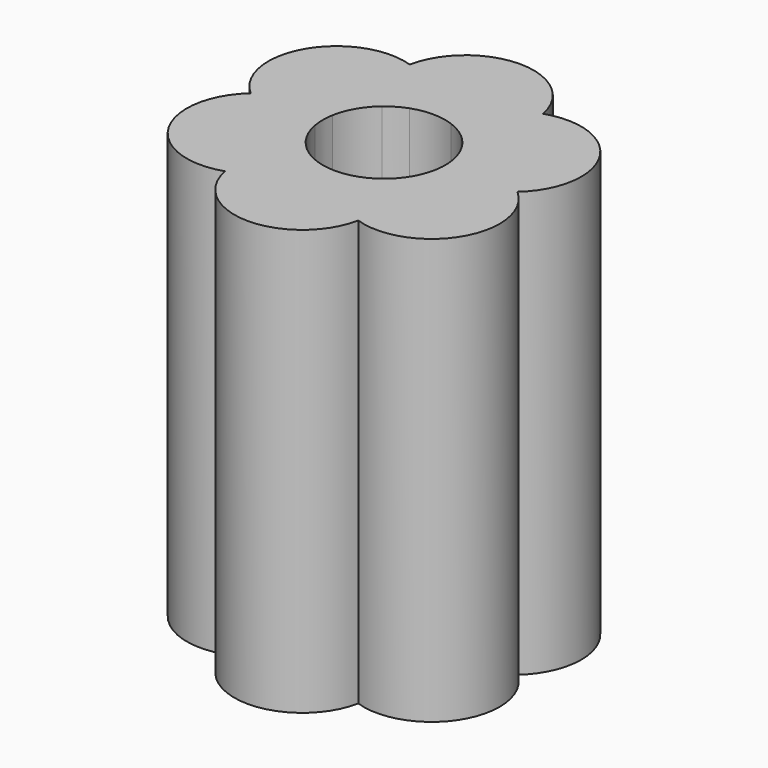
from build123d import *

# Parameters (mm, degrees)
F1_DEPTH = 2.5
F2_DEPTH = 10


with BuildPart() as f1:
    # F0 (on Top) → F1 (new body)
    with BuildSketch(Plane.XY):
        with BuildLine():
            Line((-0.8660254038, 2.5), (0, 3))
            Line((0, 3), (0.8660254038, 2.5))
            ThreePointArc((0.8660254038, 2.5), (1.3314444273, 3.0477867824), (1.9604759334, 3.3956439237))
            ThreePointArc((1.9604759334, 3.3956439237), (0, 5), (-1.9604759334, 3.3956439237))
            ThreePointArc((-1.9604759334, 3.3956439237), (-1.3314444273, 3.0477867824), (-0.8660254038, 2.5))
        make_face()
        with BuildLine():
            ThreePointArc((1.9604759334, 3.3956439237), (1.3314444273, 3.0477867824), (0.8660254038, 2.5))
            Line((0.8660254038, 2.5), (1.7320508076, 2))
            ThreePointArc((1.7320508076, 2), (1.9318516526, 2.4823619098), (2, 3))
            ThreePointArc((2, 3), (1.9900944534, 3.1988066059), (1.9604759334, 3.3956439237))
        make_face()
        with BuildLine():
            Line((-1.7320508076, 2), (-0.8660254038, 2.5))
            ThreePointArc((-0.8660254038, 2.5), (-1.3314444273, 3.0477867824), (-1.9604759334, 3.3956439237))
            ThreePointArc((-1.9604759334, 3.3956439237), (-1.9737385652, 2.676958089), (-1.7320508076, 2))
        make_face()
        with BuildLine():
            Line((-2.5980762114, 1.5), (-1.7320508076, 2))
            ThreePointArc((-1.7320508076, 2), (-1.9737385652, 2.676958089), (-1.9604759334, 3.3956439237))
            ThreePointArc((-1.9604759334, 3.3956439237), (-4.3301270189, 2.5), (-3.9209518669, 0))
            ThreePointArc((-3.9209518669, 0), (-3.3051829925, 0.3708286934), (-2.5980762114, 0.5))
            Line((-2.5980762114, 0.5), (-2.5980762114, 1.5))
        make_face()
        with BuildLine():
            ThreePointArc((-2.5980762114, 0.5), (-3.3051829925, 0.3708286934), (-3.9209518669, 0))
            ThreePointArc((-3.9209518669, 0), (-3.3051829925, -0.3708286934), (-2.5980762114, -0.5))
            Line((-2.5980762114, -0.5), (-2.5980762114, 0.5))
        make_face()
        with BuildLine():
            ThreePointArc((-2.5980762114, -0.5), (-3.3051829925, -0.3708286934), (-3.9209518669, 0))
            ThreePointArc((-3.9209518669, 0), (-4.3301270189, -2.5), (-1.9604759334, -3.3956439237))
            ThreePointArc((-1.9604759334, -3.3956439237), (-1.9737385652, -2.676958089), (-1.7320508076, -2))
            Line((-1.7320508076, -2), (-2.5980762114, -1.5))
            Line((-2.5980762114, -1.5), (-2.5980762114, -0.5))
        make_face()
        with BuildLine():
            ThreePointArc((-1.7320508076, -2), (-1.9737385652, -2.676958089), (-1.9604759334, -3.3956439237))
            ThreePointArc((-1.9604759334, -3.3956439237), (-1.3314444273, -3.0477867824), (-0.8660254038, -2.5))
            Line((-0.8660254038, -2.5), (-1.7320508076, -2))
        make_face()
        with BuildLine():
            ThreePointArc((-0.8660254038, -2.5), (-1.3314444273, -3.0477867824), (-1.9604759334, -3.3956439237))
            ThreePointArc((-1.9604759334, -3.3956439237), (0, -5), (1.9604759334, -3.3956439237))
            ThreePointArc((1.9604759334, -3.3956439237), (1.3314444273, -3.0477867824), (0.8660254038, -2.5))
            Line((0.8660254038, -2.5), (0, -3))
            Line((0, -3), (-0.8660254038, -2.5))
        make_face()
        with BuildLine():
            ThreePointArc((0.8660254038, -2.5), (1.3314444273, -3.0477867824), (1.9604759334, -3.3956439237))
            ThreePointArc((1.9604759334, -3.3956439237), (1.9900944534, -3.1988066059), (2, -3))
            ThreePointArc((2, -3), (1.9318516526, -2.4823619098), (1.7320508076, -2))
            Line((1.7320508076, -2), (0.8660254038, -2.5))
        make_face()
        with BuildLine():
            ThreePointArc((4.5980762114, -1.5), (4.4209518669, -0.6771243445), (3.9209518669, 0))
            ThreePointArc((3.9209518669, 0), (3.3051829925, -0.3708286934), (2.5980762114, -0.5))
            Line((2.5980762114, -0.5), (2.5980762114, -1.5))
            Line((2.5980762114, -1.5), (1.7320508076, -2))
            ThreePointArc((1.7320508076, -2), (1.9318516526, -2.4823619098), (2, -3))
            ThreePointArc((2, -3), (1.9900944534, -3.1988066059), (1.9604759334, -3.3956439237))
            ThreePointArc((1.9604759334, -3.3956439237), (3.7652950092, -3.1240690496), (4.5980762114, -1.5))
        make_face()
        with BuildLine():
            ThreePointArc((3.9209518669, 0), (3.3051829925, 0.3708286934), (2.5980762114, 0.5))
            Line((2.5980762114, 0.5), (2.5980762114, -0.5))
            ThreePointArc((2.5980762114, -0.5), (3.3051829925, -0.3708286934), (3.9209518669, 0))
        make_face()
        with BuildLine():
            ThreePointArc((2, 3), (1.9318516526, 2.4823619098), (1.7320508076, 2))
            Line((1.7320508076, 2), (2.5980762114, 1.5))
            Line((2.5980762114, 1.5), (2.5980762114, 0.5))
            ThreePointArc((2.5980762114, 0.5), (3.3051829925, 0.3708286934), (3.9209518669, 0))
            ThreePointArc((3.9209518669, 0), (4.4209518669, 0.6771243445), (4.5980762114, 1.5))
            ThreePointArc((4.5980762114, 1.5), (3.7652950092, 3.1240690496), (1.9604759334, 3.3956439237))
            ThreePointArc((1.9604759334, 3.3956439237), (1.9900944534, 3.1988066059), (2, 3))
        make_face()
    extrude(amount=-F1_DEPTH)

    # F0 (on Top) → F2 (join)
    with BuildSketch(Plane.XY):
        with BuildLine():
            ThreePointArc((-0.8660254038, -2.5), (-1.3314444273, -3.0477867824), (-1.9604759334, -3.3956439237))
            ThreePointArc((-1.9604759334, -3.3956439237), (0, -5), (1.9604759334, -3.3956439237))
            ThreePointArc((1.9604759334, -3.3956439237), (1.3314444273, -3.0477867824), (0.8660254038, -2.5))
            Line((0.8660254038, -2.5), (0, -3))
            Line((0, -3), (-0.8660254038, -2.5))
        make_face()
        with BuildLine():
            ThreePointArc((-1.7320508076, -2), (-1.9737385652, -2.676958089), (-1.9604759334, -3.3956439237))
            ThreePointArc((-1.9604759334, -3.3956439237), (-1.3314444273, -3.0477867824), (-0.8660254038, -2.5))
            Line((-0.8660254038, -2.5), (-1.7320508076, -2))
        make_face()
        with BuildLine():
            ThreePointArc((0.8660254038, -2.5), (1.3314444273, -3.0477867824), (1.9604759334, -3.3956439237))
            ThreePointArc((1.9604759334, -3.3956439237), (1.9900944534, -3.1988066059), (2, -3))
            ThreePointArc((2, -3), (1.9318516526, -2.4823619098), (1.7320508076, -2))
            Line((1.7320508076, -2), (0.8660254038, -2.5))
        make_face()
        with BuildLine():
            ThreePointArc((4.5980762114, -1.5), (4.4209518669, -0.6771243445), (3.9209518669, 0))
            ThreePointArc((3.9209518669, 0), (3.3051829925, -0.3708286934), (2.5980762114, -0.5))
            Line((2.5980762114, -0.5), (2.5980762114, -1.5))
            Line((2.5980762114, -1.5), (1.7320508076, -2))
            ThreePointArc((1.7320508076, -2), (1.9318516526, -2.4823619098), (2, -3))
            ThreePointArc((2, -3), (1.9900944534, -3.1988066059), (1.9604759334, -3.3956439237))
            ThreePointArc((1.9604759334, -3.3956439237), (3.7652950092, -3.1240690496), (4.5980762114, -1.5))
        make_face()
        with BuildLine():
            ThreePointArc((1.7320508076, -2), (1.4813407194, -1.6562627961), (1.1635959589, -1.3733333333))
            ThreePointArc((1.1635959589, -1.3733333333), (0.9, -1.5588457268), (0.6075435751, -1.6943703268))
            ThreePointArc((0.6075435751, -1.6943703268), (0.6936952971, -2.1110100927), (0.8660254038, -2.5))
            Line((0.8660254038, -2.5), (1.7320508076, -2))
        make_face()
        with BuildLine():
            ThreePointArc((-0.6075435751, -1.6943703268), (-0.6936952971, -2.1110100927), (-0.8660254038, -2.5))
            Line((-0.8660254038, -2.5), (0, -3))
            Line((0, -3), (0.8660254038, -2.5))
            ThreePointArc((0.8660254038, -2.5), (0.6936952971, -2.1110100927), (0.6075435751, -1.6943703268))
            ThreePointArc((0.6075435751, -1.6943703268), (0, -1.8), (-0.6075435751, -1.6943703268))
        make_face()
        with BuildLine():
            Line((2.5980762114, -1.5), (2.5980762114, -0.5))
            ThreePointArc((2.5980762114, -0.5), (2.1750360164, -0.4547472966), (1.771139534, -0.3210369935))
            ThreePointArc((1.771139534, -0.3210369935), (1.5588457268, -0.9), (1.1635959589, -1.3733333333))
            ThreePointArc((1.1635959589, -1.3733333333), (1.4813407194, -1.6562627961), (1.7320508076, -2))
            Line((1.7320508076, -2), (2.5980762114, -1.5))
        make_face()
        with BuildLine():
            ThreePointArc((-1.1635959589, -1.3733333333), (-1.4813407194, -1.6562627961), (-1.7320508076, -2))
            Line((-1.7320508076, -2), (-0.8660254038, -2.5))
            ThreePointArc((-0.8660254038, -2.5), (-0.6936952971, -2.1110100927), (-0.6075435751, -1.6943703268))
            ThreePointArc((-0.6075435751, -1.6943703268), (-0.9, -1.5588457268), (-1.1635959589, -1.3733333333))
        make_face()
        with BuildLine():
            ThreePointArc((-2.5980762114, -0.5), (-3.3051829925, -0.3708286934), (-3.9209518669, 0))
            ThreePointArc((-3.9209518669, 0), (-4.3301270189, -2.5), (-1.9604759334, -3.3956439237))
            ThreePointArc((-1.9604759334, -3.3956439237), (-1.9737385652, -2.676958089), (-1.7320508076, -2))
            Line((-1.7320508076, -2), (-2.5980762114, -1.5))
            Line((-2.5980762114, -1.5), (-2.5980762114, -0.5))
        make_face()
        with BuildLine():
            ThreePointArc((-1.771139534, -0.3210369935), (-2.1750360164, -0.4547472966), (-2.5980762114, -0.5))
            Line((-2.5980762114, -0.5), (-2.5980762114, -1.5))
            Line((-2.5980762114, -1.5), (-1.7320508076, -2))
            ThreePointArc((-1.7320508076, -2), (-1.4813407194, -1.6562627961), (-1.1635959589, -1.3733333333))
            ThreePointArc((-1.1635959589, -1.3733333333), (-1.5588457268, -0.9), (-1.771139534, -0.3210369935))
        make_face()
        with BuildLine():
            ThreePointArc((3.9209518669, 0), (3.3051829925, 0.3708286934), (2.5980762114, 0.5))
            Line((2.5980762114, 0.5), (2.5980762114, -0.5))
            ThreePointArc((2.5980762114, -0.5), (3.3051829925, -0.3708286934), (3.9209518669, 0))
        make_face()
        with BuildLine():
            ThreePointArc((2, 3), (1.9318516526, 2.4823619098), (1.7320508076, 2))
            Line((1.7320508076, 2), (2.5980762114, 1.5))
            Line((2.5980762114, 1.5), (2.5980762114, 0.5))
            ThreePointArc((2.5980762114, 0.5), (3.3051829925, 0.3708286934), (3.9209518669, 0))
            ThreePointArc((3.9209518669, 0), (4.4209518669, 0.6771243445), (4.5980762114, 1.5))
            ThreePointArc((4.5980762114, 1.5), (3.7652950092, 3.1240690496), (1.9604759334, 3.3956439237))
            ThreePointArc((1.9604759334, 3.3956439237), (1.9900944534, 3.1988066059), (2, 3))
        make_face()
        with BuildLine():
            ThreePointArc((1.9604759334, 3.3956439237), (1.3314444273, 3.0477867824), (0.8660254038, 2.5))
            Line((0.8660254038, 2.5), (1.7320508076, 2))
            ThreePointArc((1.7320508076, 2), (1.9318516526, 2.4823619098), (2, 3))
            ThreePointArc((2, 3), (1.9900944534, 3.1988066059), (1.9604759334, 3.3956439237))
        make_face()
        with BuildLine():
            Line((2.5980762114, -0.5), (2.5980762114, 0.5))
            ThreePointArc((2.5980762114, 0.5), (2.1750360164, 0.4547472966), (1.771139534, 0.3210369935))
            ThreePointArc((1.771139534, 0.3210369935), (1.7927703647, 0.1611658134), (1.8, 0))
            ThreePointArc((1.8, 0), (1.7927703647, -0.1611658134), (1.771139534, -0.3210369935))
            ThreePointArc((1.771139534, -0.3210369935), (2.1750360164, -0.4547472966), (2.5980762114, -0.5))
        make_face()
        with BuildLine():
            Line((2.5980762114, 1.5), (1.7320508076, 2))
            ThreePointArc((1.7320508076, 2), (1.4813407194, 1.6562627961), (1.1635959589, 1.3733333333))
            ThreePointArc((1.1635959589, 1.3733333333), (1.5588457268, 0.9), (1.771139534, 0.3210369935))
            ThreePointArc((1.771139534, 0.3210369935), (2.1750360164, 0.4547472966), (2.5980762114, 0.5))
            Line((2.5980762114, 0.5), (2.5980762114, 1.5))
        make_face()
        with BuildLine():
            Line((1.7320508076, 2), (0.8660254038, 2.5))
            ThreePointArc((0.8660254038, 2.5), (0.6936952971, 2.1110100927), (0.6075435751, 1.6943703268))
            ThreePointArc((0.6075435751, 1.6943703268), (0.9, 1.5588457268), (1.1635959589, 1.3733333333))
            ThreePointArc((1.1635959589, 1.3733333333), (1.4813407194, 1.6562627961), (1.7320508076, 2))
        make_face()
        with BuildLine():
            ThreePointArc((-2.5980762114, 0.5), (-3.3051829925, 0.3708286934), (-3.9209518669, 0))
            ThreePointArc((-3.9209518669, 0), (-3.3051829925, -0.3708286934), (-2.5980762114, -0.5))
            Line((-2.5980762114, -0.5), (-2.5980762114, 0.5))
        make_face()
        with BuildLine():
            Line((-2.5980762114, 1.5), (-1.7320508076, 2))
            ThreePointArc((-1.7320508076, 2), (-1.9737385652, 2.676958089), (-1.9604759334, 3.3956439237))
            ThreePointArc((-1.9604759334, 3.3956439237), (-4.3301270189, 2.5), (-3.9209518669, 0))
            ThreePointArc((-3.9209518669, 0), (-3.3051829925, 0.3708286934), (-2.5980762114, 0.5))
            Line((-2.5980762114, 0.5), (-2.5980762114, 1.5))
        make_face()
        with BuildLine():
            ThreePointArc((-1.771139534, 0.3210369935), (-2.1750360164, 0.4547472966), (-2.5980762114, 0.5))
            Line((-2.5980762114, 0.5), (-2.5980762114, -0.5))
            ThreePointArc((-2.5980762114, -0.5), (-2.1750360164, -0.4547472966), (-1.771139534, -0.3210369935))
            ThreePointArc((-1.771139534, -0.3210369935), (-1.8, 0), (-1.771139534, 0.3210369935))
        make_face()
        with BuildLine():
            ThreePointArc((-1.1635959589, 1.3733333333), (-1.4813407194, 1.6562627961), (-1.7320508076, 2))
            Line((-1.7320508076, 2), (-2.5980762114, 1.5))
            Line((-2.5980762114, 1.5), (-2.5980762114, 0.5))
            ThreePointArc((-2.5980762114, 0.5), (-2.1750360164, 0.4547472966), (-1.771139534, 0.3210369935))
            ThreePointArc((-1.771139534, 0.3210369935), (-1.5588457268, 0.9), (-1.1635959589, 1.3733333333))
        make_face()
        with BuildLine():
            Line((-1.7320508076, 2), (-0.8660254038, 2.5))
            ThreePointArc((-0.8660254038, 2.5), (-1.3314444273, 3.0477867824), (-1.9604759334, 3.3956439237))
            ThreePointArc((-1.9604759334, 3.3956439237), (-1.9737385652, 2.676958089), (-1.7320508076, 2))
        make_face()
        with BuildLine():
            Line((-0.8660254038, 2.5), (0, 3))
            Line((0, 3), (0.8660254038, 2.5))
            ThreePointArc((0.8660254038, 2.5), (1.3314444273, 3.0477867824), (1.9604759334, 3.3956439237))
            ThreePointArc((1.9604759334, 3.3956439237), (0, 5), (-1.9604759334, 3.3956439237))
            ThreePointArc((-1.9604759334, 3.3956439237), (-1.3314444273, 3.0477867824), (-0.8660254038, 2.5))
        make_face()
        with BuildLine():
            ThreePointArc((-0.6075435751, 1.6943703268), (-0.6936952971, 2.1110100927), (-0.8660254038, 2.5))
            Line((-0.8660254038, 2.5), (-1.7320508076, 2))
            ThreePointArc((-1.7320508076, 2), (-1.4813407194, 1.6562627961), (-1.1635959589, 1.3733333333))
            ThreePointArc((-1.1635959589, 1.3733333333), (-0.9, 1.5588457268), (-0.6075435751, 1.6943703268))
        make_face()
        with BuildLine():
            Line((0.8660254038, 2.5), (0, 3))
            Line((0, 3), (-0.8660254038, 2.5))
            ThreePointArc((-0.8660254038, 2.5), (-0.6936952971, 2.1110100927), (-0.6075435751, 1.6943703268))
            ThreePointArc((-0.6075435751, 1.6943703268), (0, 1.8), (0.6075435751, 1.6943703268))
            ThreePointArc((0.6075435751, 1.6943703268), (0.6936952971, 2.1110100927), (0.8660254038, 2.5))
        make_face()
    extrude(amount=F2_DEPTH)


solid = f1.part
